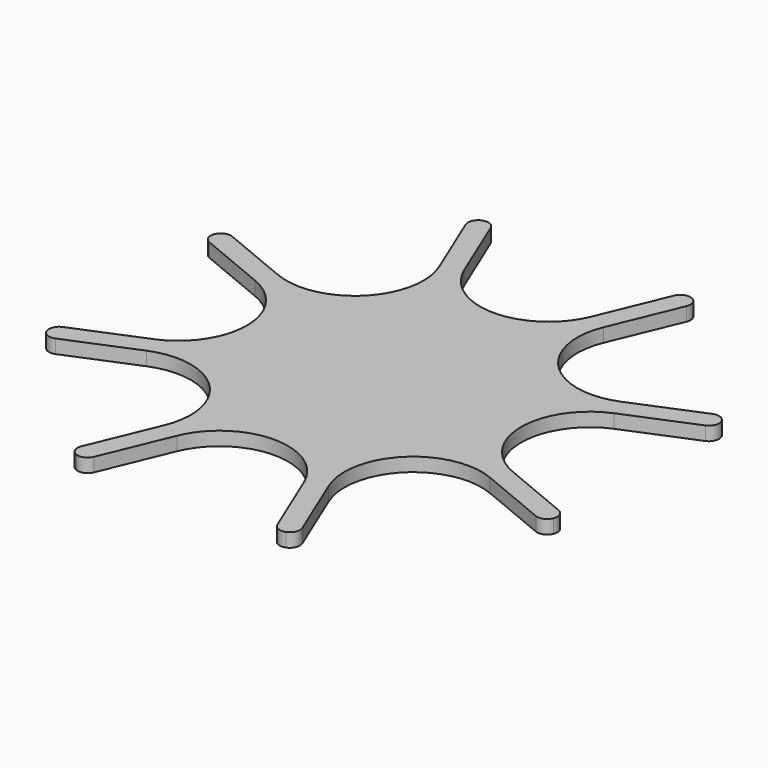
from build123d import *

# Parameters (mm, degrees)
F2_DEPTH = 12.7


with BuildPart() as f2:
    # F0 (on Top) → F2 (new body)
    with BuildSketch(Plane.XY):
        with BuildLine():
            ThreePointArc((-229.577515, -84.918341), (-234.665402, -90.006231), (-234.665401, -97.201592))
            ThreePointArc((-234.665401, -97.201592), (-229.577512, -102.289481), (-222.38215, -102.289481))
            Line((-222.38215, -102.289481), (-159.00424, -76.037492))
            ThreePointArc((-159.00424, -76.037492), (-89.802561, -89.802561), (-76.037492, -159.00424))
            Line((-76.037492, -159.00424), (-102.289483, -222.382153))
            ThreePointArc((-102.289483, -222.382153), (-102.289481, -229.577513), (-97.201592, -234.665401))
            ThreePointArc((-97.201592, -234.665401), (-90.00623, -234.665401), (-84.91834, -229.577512))
            Line((-84.91834, -229.577512), (-58.66635, -166.199602))
            ThreePointArc((-58.66635, -166.199602), (0, -127), (58.66635, -166.199602))
            Line((58.66635, -166.199602), (84.918341, -229.577515))
            ThreePointArc((84.918341, -229.577515), (90.006231, -234.665402), (97.201592, -234.665401))
            ThreePointArc((97.201592, -234.665401), (102.289481, -229.577512), (102.289481, -222.38215))
            Line((102.289481, -222.38215), (76.037492, -159.00424))
            ThreePointArc((76.037492, -159.00424), (89.802561, -89.802561), (159.00424, -76.037492))
            Line((159.00424, -76.037492), (222.382153, -102.289483))
            ThreePointArc((222.382153, -102.289483), (229.577514, -102.289481), (234.665401, -97.201591))
            ThreePointArc((234.665401, -97.201591), (234.665401, -90.006229), (229.577512, -84.91834))
            Line((229.577512, -84.91834), (166.199602, -58.66635))
            ThreePointArc((166.199602, -58.66635), (127, 0), (166.199602, 58.66635))
            Line((166.199602, 58.66635), (229.577515, 84.918341))
            ThreePointArc((229.577515, 84.918341), (234.665402, 90.006231), (234.665401, 97.201592))
            ThreePointArc((234.665401, 97.201592), (229.577512, 102.289481), (222.38215, 102.289481))
            Line((222.38215, 102.289481), (159.00424, 76.037492))
            ThreePointArc((159.00424, 76.037492), (89.802561, 89.802561), (76.037492, 159.00424))
            Line((76.037492, 159.00424), (102.289483, 222.382153))
            ThreePointArc((102.289483, 222.382153), (102.289481, 229.577514), (97.201591, 234.665401))
            ThreePointArc((97.201591, 234.665401), (90.006229, 234.665401), (84.91834, 229.577512))
            Line((84.91834, 229.577512), (58.66635, 166.199602))
            ThreePointArc((58.66635, 166.199602), (0, 127), (-58.66635, 166.199602))
            Line((-58.66635, 166.199602), (-84.918341, 229.577515))
            ThreePointArc((-84.918341, 229.577515), (-90.006232, 234.665402), (-97.201593, 234.665401))
            ThreePointArc((-97.201593, 234.665401), (-102.289481, 229.577511), (-102.289481, 222.38215))
            Line((-102.289481, 222.38215), (-76.037492, 159.00424))
            ThreePointArc((-76.037492, 159.00424), (-89.802561, 89.802561), (-159.00424, 76.037492))
            Line((-159.00424, 76.037492), (-222.382153, 102.289483))
            ThreePointArc((-222.382153, 102.289483), (-229.577514, 102.289481), (-234.665401, 97.201591))
            ThreePointArc((-234.665401, 97.201591), (-234.665401, 90.006229), (-229.577512, 84.91834))
            Line((-229.577512, 84.91834), (-166.199602, 58.66635))
            ThreePointArc((-166.199602, 58.66635), (-127, 0), (-166.199602, -58.66635))
            Line((-166.199602, -58.66635), (-229.577515, -84.918341))
        make_face()
    extrude(amount=F2_DEPTH)


solid = f2.part
